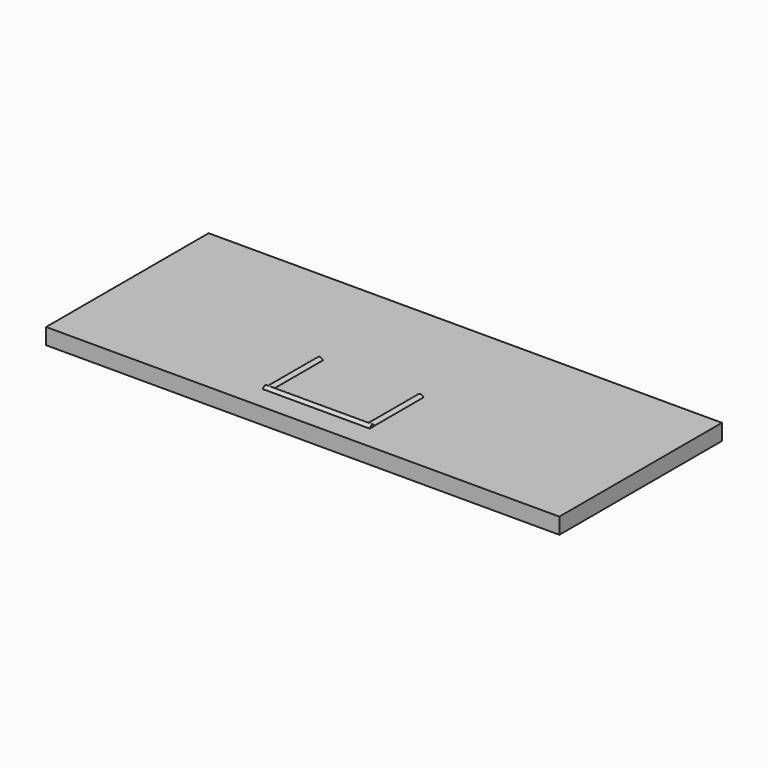
from build123d import *

# Parameters (mm, degrees)
CYLINDER026_R             = 3
CYLINDER026_DEPTH         = 60
CYLINDER026_PITCH_ANGLE   = 90
CYLINDER025_R             = 3
CYLINDER025_DEPTH         = 100
CYLINDER025_ROLL_ANGLE    = 90
CYLINDER027_R             = 3
CYLINDER027_DEPTH         = 60
CYLINDER027_PITCH_ANGLE   = 90
FUSION011_PLACEMENT_ANGLE = 90
BOX026_W                  = 480
BOX026_H                  = 190
BOX026_DEPTH              = 15


with BuildPart() as cylinder032:
    # Cylinder026 → Cylinder026 (new body)
    with BuildSketch(Plane.XY):
        Circle(CYLINDER026_R)
    extrude(amount=CYLINDER026_DEPTH)


with BuildPart() as cylinder032_1:
    # Cylinder026 pitch: moved
    add(cylinder032.part.rotate(Axis((0, 0, 0), (0, 1, 0)), CYLINDER026_PITCH_ANGLE))


with BuildPart() as cylinder032_2:
    # Cylinder026 placement: moved
    add(cylinder032_1.part.moved(Location((-50, -3, 0))))


with BuildPart() as fusion010:
    # Cylinder025 → Cylinder025 (new body)
    with BuildSketch(Plane.XY):
        Circle(CYLINDER025_R)
    extrude(amount=CYLINDER025_DEPTH)


with BuildPart() as fusion010_1:
    # Cylinder025 roll: moved
    add(fusion010.part.rotate(Axis((0, 0, 0), (1, 0, 0)), CYLINDER025_ROLL_ANGLE))


with BuildPart() as fusion010_2:
    # Cylinder025 placement: moved
    add(fusion010_1.part.moved(Location((-50, 0, 0))))

    # Fusion010: union Cylinder032
    add(cylinder032_2.part)


with BuildPart() as handle_top:
    # Cylinder027 → Cylinder027 (new body)
    with BuildSketch(Plane.XY):
        Circle(CYLINDER027_R)
    extrude(amount=CYLINDER027_DEPTH)


with BuildPart() as handle_top_1:
    # Cylinder027 pitch: moved
    add(handle_top.part.rotate(Axis((0, 0, 0), (0, 1, 0)), CYLINDER027_PITCH_ANGLE))


with BuildPart() as handle_top_2:
    # Cylinder027 placement: moved
    add(handle_top_1.part.moved(Location((-50, -97, 0))))

    # Fusion011: union Fusion010
    add(fusion010_2.part)


with BuildPart() as handle_top_3:
    # Fusion011 placement: moved
    add(handle_top_2.part.moved(Location((195, 105, 299))).rotate(Axis((195, 105, 299), (0, 0, 1)), FUSION011_PLACEMENT_ANGLE))


with BuildPart() as solar_box_top_cover:
    # Box026 → Box026 (new body)
    with BuildSketch(Plane(origin=(10, 30, 285), x_dir=(1, 0, 0), z_dir=(0, 0, 1))):
        with Locations((240, 95)):
            Rectangle(BOX026_W, BOX026_H)
    extrude(amount=BOX026_DEPTH)

    # Fusion012: union Handle Top
    add(handle_top_3.part)


solid = solar_box_top_cover.part
